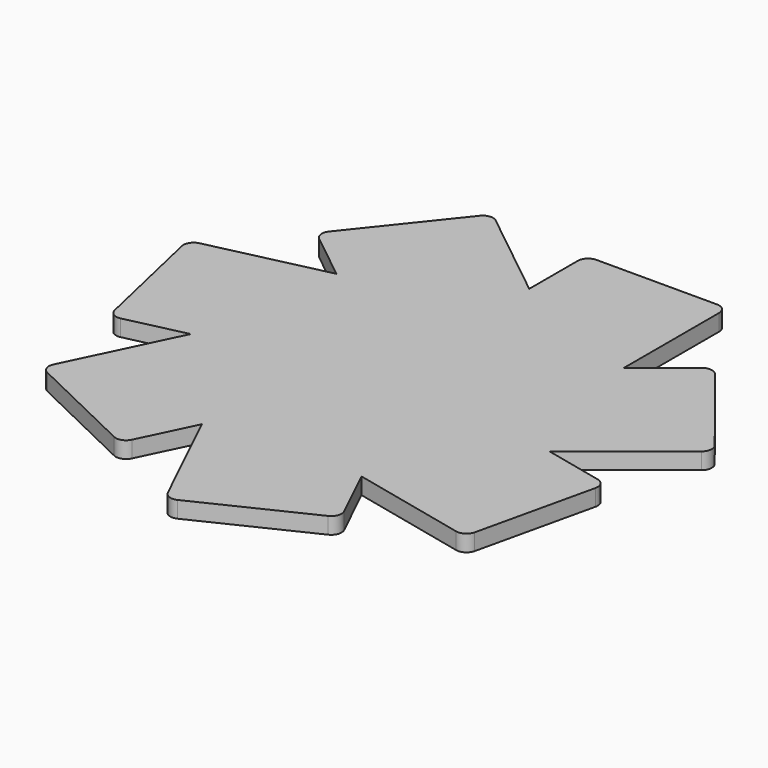
from build123d import *

# Parameters (mm, degrees)
F1_DEPTH = 8
F2_COUNT = 7


with BuildPart() as f1:
    # F0 (on Top) → F1 (new body)
    with BuildSketch(Plane.XY):
        with BuildLine():
            Line((33.690276, 82.462918), (-24.709724, 82.462918))
            ThreePointArc((-24.709724, 82.462918), (-28.245258, 80.998452), (-29.709724, 77.462918))
            Line((-29.709724, 77.462918), (-29.709724, -37.013201))
            ThreePointArc((-29.709724, -37.013201), (-28.245258, -40.548735), (-24.709724, -42.013201))
            Line((-24.709724, -42.013201), (33.690276, -42.013201))
            ThreePointArc((33.690276, -42.013201), (37.22581, -40.548735), (38.690276, -37.013201))
            Line((38.690276, -37.013201), (38.690276, 77.462918))
            ThreePointArc((38.690276, 77.462918), (37.22581, 80.998452), (33.690276, 82.462918))
        make_face()
    extrude(amount=F1_DEPTH)

    # F2: F1 ×7 about axis
    f2_axis = Axis((-24.709724, -37.013201, 0), (0, 0, -1))


with BuildPart() as f1_1:
    add(f1.part)
    for i in range(1, F2_COUNT):
        add(f1.part.rotate(f2_axis, i * 360 / F2_COUNT))


solid = f1_1.part
